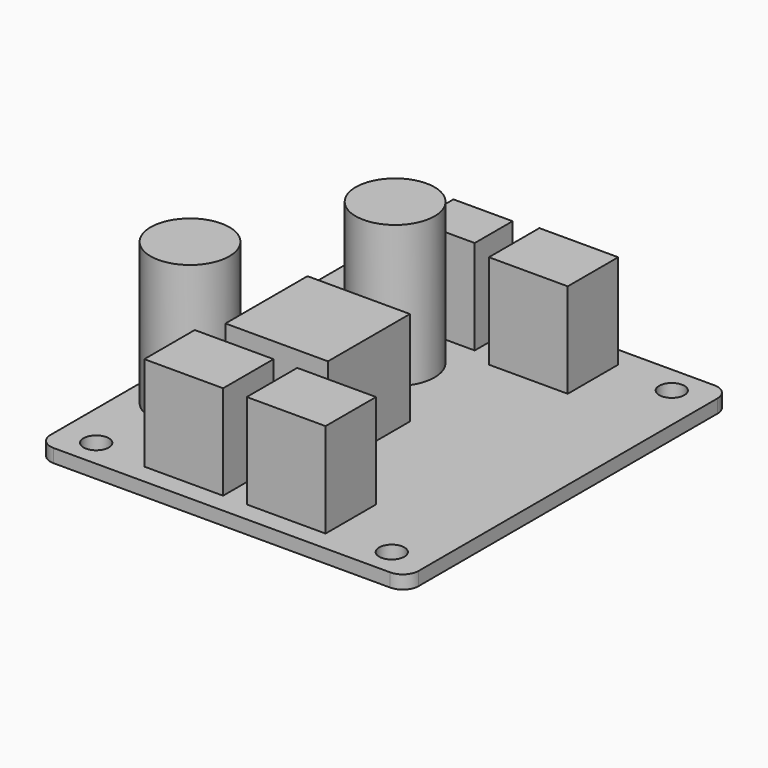
from build123d import *

# Parameters (mm, degrees)
SKETCH_R      = 1.6
PAD_DEPTH     = 1.7
SKETCH001_W   = 10
SKETCH001_H   = 8
SKETCH001_W_2 = 7.5
SKETCH001_H_2 = 6
SKETCH001_W_3 = 13
SKETCH001_H_3 = 13
PAD001_DEPTH  = 12
SKETCH002_R   = 5
PAD002_DEPTH  = 18


with BuildPart() as part:
    # Sketch → Pad (new body)
    with BuildSketch(Plane.XY):
        with BuildLine():
            Line((-21.35, 25.7), (21.35, 25.7))
            ThreePointArc((23.35, 23.7), (22.764214, 25.114214), (21.35, 25.7))
            Line((23.35, 23.7), (23.35, -23.7))
            ThreePointArc((21.35, -25.7), (22.764214, -25.114214), (23.35, -23.7))
            Line((21.35, -25.7), (-21.35, -25.7))
            ThreePointArc((-23.35, -23.7), (-22.764214, -25.114214), (-21.35, -25.7))
            Line((-23.35, -23.7), (-23.35, 23.7))
            ThreePointArc((-21.35, 25.7), (-22.764214, 25.114214), (-23.35, 23.7))
        make_face()
        with Locations((-18.75, -22.2)):
            Circle(SKETCH_R, mode=Mode.SUBTRACT)
        with Locations((18.75, -22.2)):
            Circle(SKETCH_R, mode=Mode.SUBTRACT)
        with Locations((18.75, 22.2)):
            Circle(SKETCH_R, mode=Mode.SUBTRACT)
        with Locations((-18.75, 22.2)):
            Circle(SKETCH_R, mode=Mode.SUBTRACT)
    extrude(amount=PAD_DEPTH)

    # Sketch001 (on Face14 of Pad) → Pad001 (join)
    with BuildSketch(Plane.XY.offset(1.7)):
        with Locations((-6.85, -19.2)):
            Rectangle(SKETCH001_W, SKETCH001_H)
        with Locations((6.15, -19.2)):
            Rectangle(SKETCH001_W, SKETCH001_H)
        with Locations((6.15, 19.2)):
            Rectangle(SKETCH001_W, SKETCH001_H)
        with Locations((-5.6, 19.7)):
            Rectangle(SKETCH001_W_2, SKETCH001_H_2)
        with Locations((-3.85, -5.7)):
            Rectangle(SKETCH001_W_3, SKETCH001_H_3)
    extrude(amount=PAD001_DEPTH)

    # Sketch002 (on Face5 of Pad001) → Pad002 (join)
    with BuildSketch(Plane.XY.offset(1.7)):
        with Locations((-16.85, -9.7)):
            Circle(SKETCH002_R)
        with Locations((-6.35, 9.7)):
            Circle(SKETCH002_R)
    extrude(amount=PAD002_DEPTH)


solid = part.part
